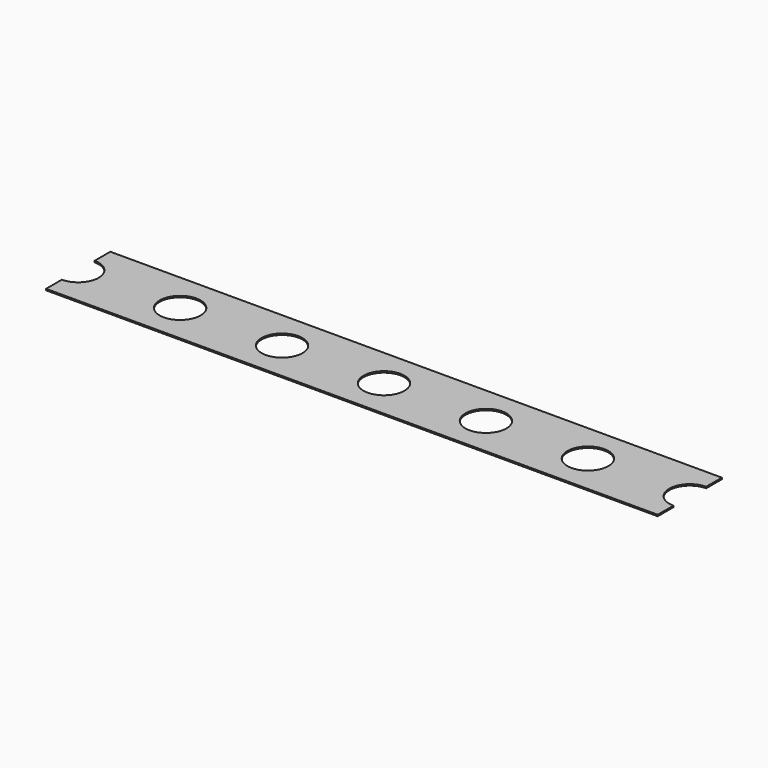
from build123d import *

# Parameters (mm, degrees)
SKETCH002_W            = 15.24
SKETCH002_H            = 2
PAD001_DEPTH           = 0.035
SKETCH003_R            = 0.51
POCKET001_DEPTH        = 0.036
LINEARPATTERN004_COUNT = 7
LINEARPATTERN004_PITCH = 2.54


with BuildPart() as part:
    # Sketch002 → Pad001 (new body)
    with BuildSketch(Plane.XY):
        Rectangle(SKETCH002_W, SKETCH002_H)
    extrude(amount=-PAD001_DEPTH)

    # Sketch003 → Pocket001 (cut, through all)
    with BuildSketch(Plane.XY):
        with Locations((-7.62, 0)):
            Circle(SKETCH003_R)
    pocket001 = extrude(amount=-POCKET001_DEPTH, mode=Mode.SUBTRACT)

    # LinearPattern004: Pocket001 ×7
    with Locations(*[(i * LINEARPATTERN004_PITCH, 0, 0) for i in range(1, LINEARPATTERN004_COUNT)]):
        add(pocket001, mode=Mode.SUBTRACT)


solid = part.part
